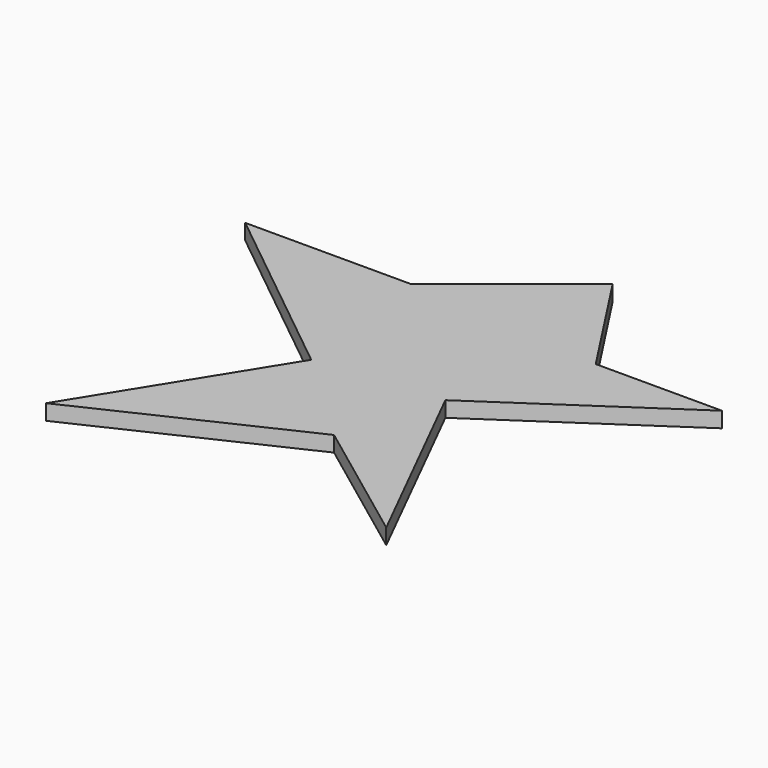
from build123d import *

# Parameters (mm, degrees)
PAD_DEPTH = 10


with BuildPart() as part:
    # Sketch → Pad (new body)
    with BuildSketch(Plane.XY):
        Polygon((-38.693619, 95.521584), (-117.703079, 32.091431), (-224.532791, 32.091431), (-105.462189, -63.61018), (-180.020416, -183.79361), (-45.370419, -120.363464), (38.090302, -182.680801), (-25.339891, -55.820522), (90.392357, 22.076147), (9.157263, 22.076147), align=None)
    extrude(amount=-PAD_DEPTH)


with BuildPart() as part_1:
    # Body placement: moved
    add(part.part.moved(Location((224.532791, 183.79361, 0))))


solid = part_1.part
